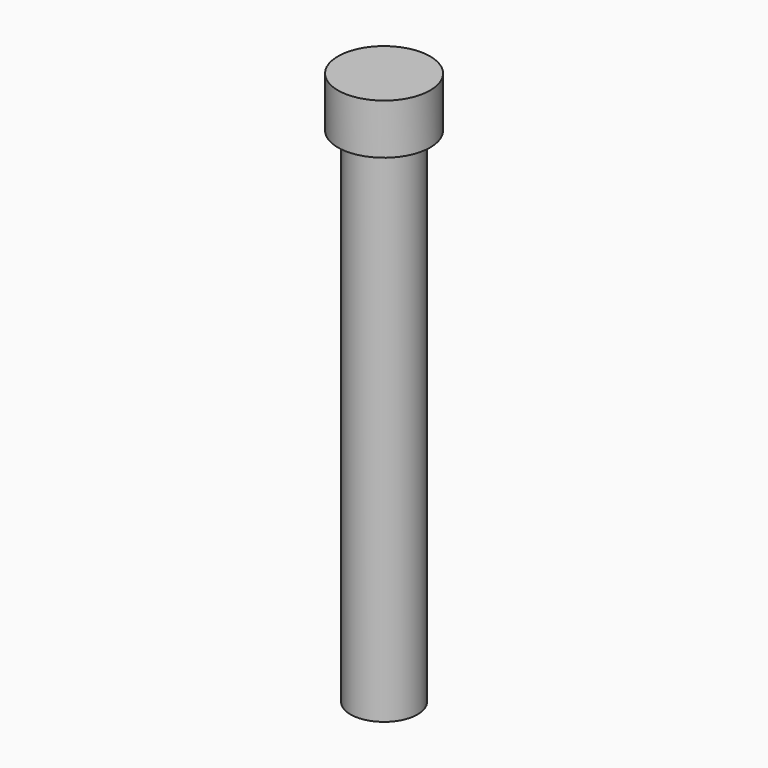
from build123d import *


with BuildPart() as part:
    # Sketch → Revolution (revolve)
    with BuildSketch(Plane.XZ):
        Polygon((0, 0), (0, 33), (2.75, 33), (2.75, 30), (2, 30), (2, 0), align=None)
    revolve(axis=Axis((0, 0, 0), (0, 0, 1)))


solid = part.part
